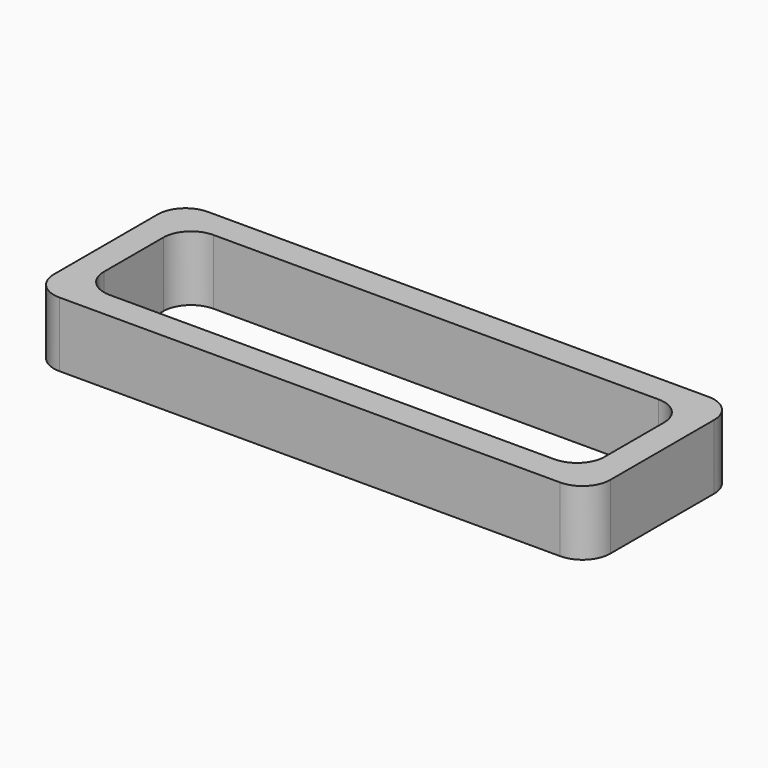
from build123d import *

# Parameters (mm, degrees)
F0_W     = 60
F0_H     = 20
F0_W_2   = 54
F0_H_2   = 14
F1_DEPTH = 3.5
F2_R     = 3


with BuildPart() as f1:
    # F0 (on Top) → F1 (new body, symmetric)
    with BuildSketch(Plane.XY):
        Rectangle(F0_W, F0_H)
        Rectangle(F0_W_2, F0_H_2, mode=Mode.SUBTRACT)
    extrude(amount=F1_DEPTH, both=True)

    # F2
    f2_edges = [f1.edges().sort_by_distance(p)[0] for p in [
        (-30, -10, 0),
        (-30, 10, 0),
        (-27, 7, 0),
        (-27, -7, 0),
        (27, 7, 0),
        (27, -7, 0),
        (30, 10, 0),
        (30, -10, 0),
    ]]
    fillet(f2_edges, radius=F2_R)


solid = f1.part
